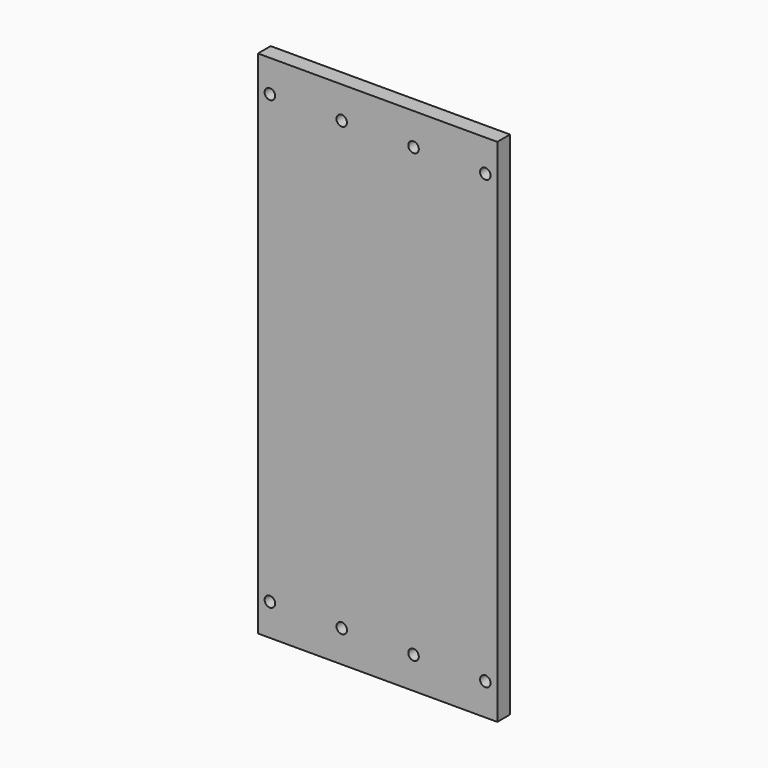
from build123d import *

# Parameters (mm, degrees)
F0_W     = 150
F0_H     = 320
F0_R     = 3.3
F1_DEPTH = 10


with BuildPart() as f1:
    # F0 (on Front) → F1 (new body)
    with BuildSketch(Plane.XZ):
        Rectangle(F0_W, F0_H)
        with Locations((-67.5, -140)):
            Circle(F0_R, mode=Mode.SUBTRACT)
        with Locations((-22.5, -140)):
            Circle(F0_R, mode=Mode.SUBTRACT)
        with Locations((22.5, -140)):
            Circle(F0_R, mode=Mode.SUBTRACT)
        with Locations((67.5, -140)):
            Circle(F0_R, mode=Mode.SUBTRACT)
        with Locations((-67.5, 140)):
            Circle(F0_R, mode=Mode.SUBTRACT)
        with Locations((-22.5, 140)):
            Circle(F0_R, mode=Mode.SUBTRACT)
        with Locations((22.5, 140)):
            Circle(F0_R, mode=Mode.SUBTRACT)
        with Locations((67.5, 140)):
            Circle(F0_R, mode=Mode.SUBTRACT)
    extrude(amount=F1_DEPTH)


solid = f1.part
